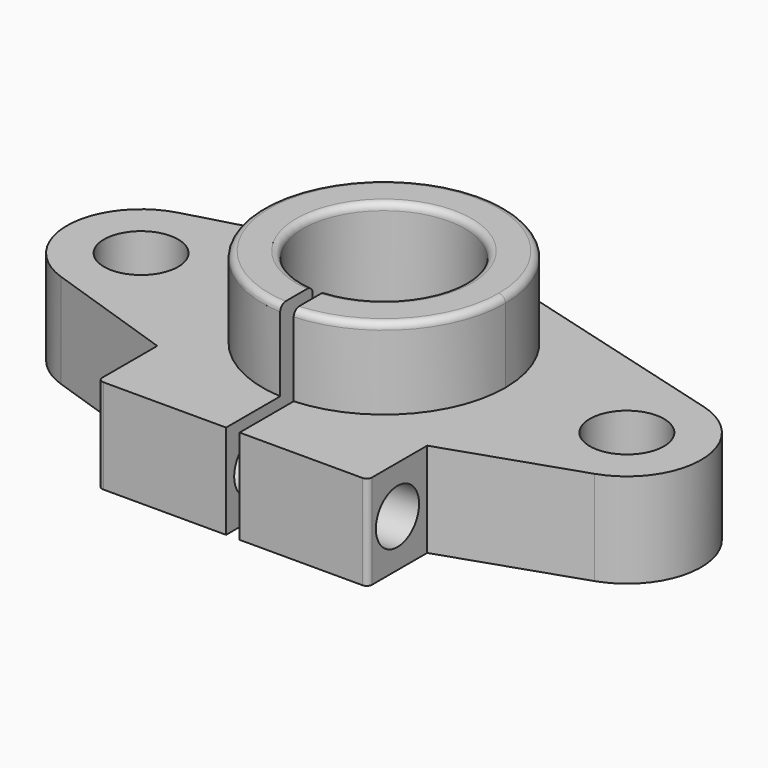
from build123d import *

# Parameters (mm, degrees)
SKETCH_R        = 6
SKETCH_R_2      = 2.75
PAD_DEPTH       = 3.5
SKETCH003_R     = 9
SKETCH003_R_2   = 6
PAD001_DEPTH    = 6
FILLET_R        = 0.4
SKETCH004_R     = 2
POCKET_DEPTH    = 33.501
FILLET001_R     = 0.5
SKETCH005_W     = 1
SKETCH005_H     = 10
POCKET001_DEPTH = 13.001


with BuildPart() as part:
    # Sketch → Pad (new body, symmetric)
    with BuildSketch(Plane.XY):
        with BuildLine():
            Line((-2.5, 10), (2.5, 10))
            Line((19.468038, 5.300459), (2.5, 10))
            ThreePointArc((19.756482, -5.211983), (23.497931, 0.150854), (19.468038, 5.300459))
            Line((19.756482, -5.211983), (10, -8.5))
            Line((10, -14), (10, -8.5))
            Line((-10, -14), (10, -14))
            Line((-10, -14), (-10, -8.5))
            Line((-10, -8.5), (-19.756482, -5.211983))
            ThreePointArc((-19.468038, 5.300459), (-23.497931, 0.150854), (-19.756482, -5.211983))
            Line((-19.468038, 5.300459), (-2.5, 10))
        make_face()
        Circle(SKETCH_R, mode=Mode.SUBTRACT)
        with Locations((18, 0)):
            Circle(SKETCH_R_2, mode=Mode.SUBTRACT)
        with Locations((-18, 0)):
            Circle(SKETCH_R_2, mode=Mode.SUBTRACT)
    extrude(amount=PAD_DEPTH, both=True)

    # Sketch003 → Pad001 (join)
    with BuildSketch(Plane.XY.offset(3.5)):
        Circle(SKETCH003_R)
        Circle(SKETCH003_R_2, mode=Mode.SUBTRACT)
    extrude(amount=PAD001_DEPTH)

    # Fillet
    fillet_edges = [part.edges().sort_by_distance(p)[0] for p in [
        (10, -14, 0),
        (-10, -14, 0),
    ]]
    fillet(fillet_edges, radius=FILLET_R)

    # Sketch004 (on Face10 of Pad001) → Pocket (cut, through all)
    with BuildSketch(Plane.YZ.offset(10)):
        with Locations((-11.25, 0)):
            Circle(SKETCH004_R)
    extrude(amount=-POCKET_DEPTH, mode=Mode.SUBTRACT)

    # Fillet001
    fillet001_edges = [part.edges().sort_by_distance(p)[0] for p in [
        (-9, 0, 9.5),
        (-6, 0, 9.5),
    ]]
    fillet(fillet001_edges, radius=FILLET001_R)

    # Sketch005 (on Face3 of Fillet001) → Pocket001 (cut, through all)
    with BuildSketch(Plane(origin=(0, 0, -3.5), x_dir=(1, 0, 0), z_dir=(0, 0, -1))):
        with Locations((0, 10)):
            Rectangle(SKETCH005_W, SKETCH005_H)
    extrude(amount=-POCKET001_DEPTH, mode=Mode.SUBTRACT)


solid = part.part
